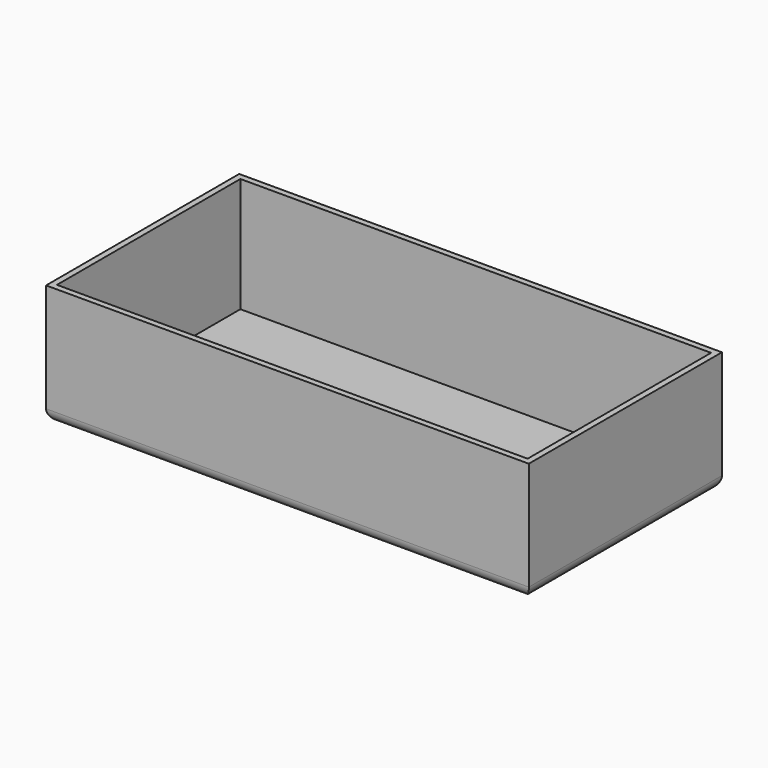
from build123d import *

# Parameters (mm, degrees)
F0_W     = 200
F0_H     = 100
F1_DEPTH = 50
F2_T     = -2.5
F3_R     = 5


with BuildPart() as f1:
    # F0 (on Top) → F1 (new body)
    with BuildSketch(Plane.XY):
        Rectangle(F0_W, F0_H)
    extrude(amount=F1_DEPTH)

    # F2
    f2_openings = [f1.faces().sort_by_distance(p)[0] for p in [
        (0, 0, 50),
    ]]
    offset(amount=F2_T, openings=f2_openings)

    # F3
    f3_edges = [f1.edges().sort_by_distance(p)[0] for p in [
        (0, -50, 0),
        (100, 0, 0),
        (0, 50, 0),
        (-100, 0, 0),
    ]]
    fillet(f3_edges, radius=F3_R)


solid = f1.part
